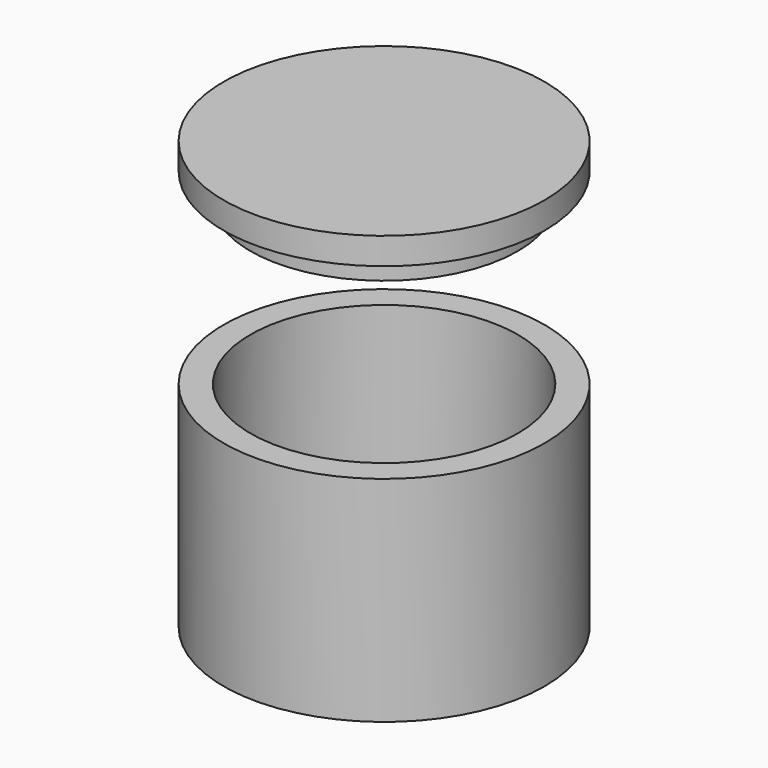
from build123d import *

# Parameters (mm, degrees)
F0_R      = 6
F1_DEPTH  = 8
F2_T      = -1
F4_R      = 5
F5_DEPTH  = 1
F4_R_2    = 6
F5_FACE_R = 5
F6_DEPTH  = 1


with BuildPart() as f1:
    # F0 (on Top) → F1 (new body)
    with BuildSketch(Plane.XY):
        Circle(F0_R)
    extrude(amount=F1_DEPTH)

    # F2
    f2_openings = [f1.faces().sort_by_distance(p)[0] for p in [
        (0, 0, 8),
    ]]
    offset(amount=F2_T, openings=f2_openings)


with BuildPart() as f5:
    # F4 (on offset) → F5 (new body)
    with BuildSketch(Plane.XY.offset(15)):
        Circle(F4_R)
    extrude(amount=-F5_DEPTH)

    # F4 (on offset) + F5_face (on face) → F6 (join)
    with BuildSketch(Plane.XY.offset(15)):
        Circle(F4_R_2)
        Circle(F4_R, mode=Mode.SUBTRACT)
    with BuildSketch(Plane.XY.offset(15)):
        Circle(F5_FACE_R)
    extrude(amount=F6_DEPTH)


solid = Compound([f1.part, f5.part])
